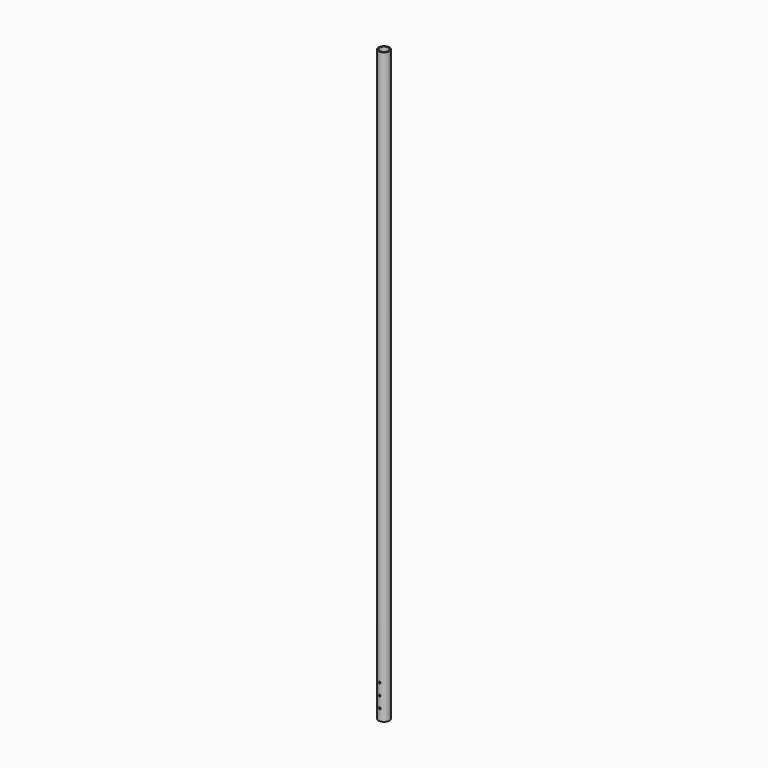
from build123d import *

# Parameters (mm, degrees)
F0_R     = 36.5125
F0_R_2   = 30.1625
F1_DEPTH = 3962.4
F4_R     = 6.35
F5_DEPTH = 37.5125000999


with BuildPart() as f1:
    # F0 (on Top) → F1 (new body)
    with BuildSketch(Plane.XY):
        Circle(F0_R)
        Circle(F0_R_2, mode=Mode.SUBTRACT)
    extrude(amount=F1_DEPTH)

    # F4 (on line) → F5 (cut, up to face)
    with BuildSketch(Plane(origin=(0, 0, 0), x_dir=(-1, 0, 0), z_dir=(0, 1, 0))):
        with Locations((0, 76.2)):
            Circle(F4_R)
        with Locations((0, 152.4)):
            Circle(F4_R)
        with Locations((0, 228.6)):
            Circle(F4_R)
    extrude(amount=-F5_DEPTH, mode=Mode.SUBTRACT)


solid = f1.part
